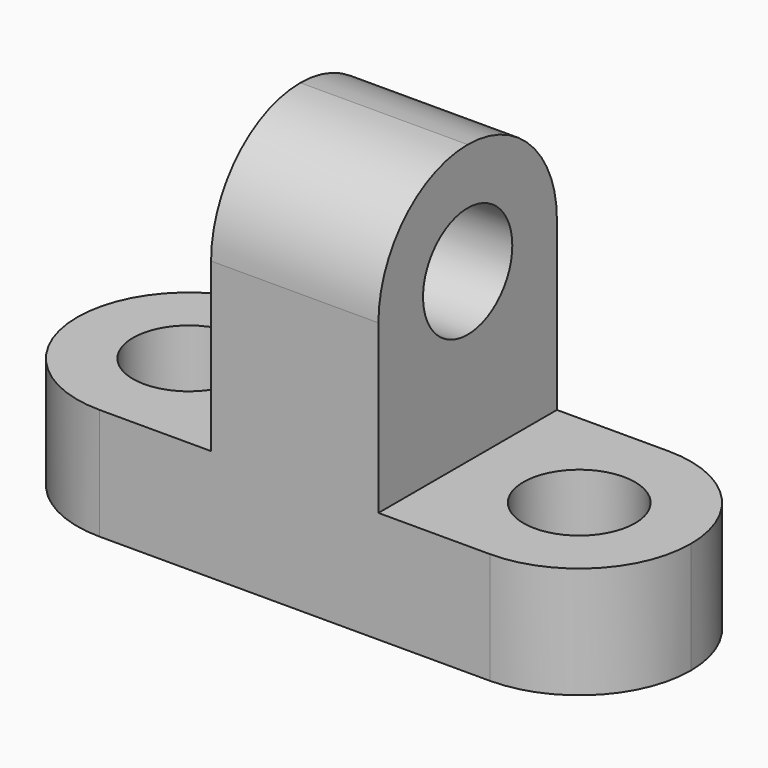
from build123d import *

# Parameters (mm, degrees)
F0_W      = 69.85
F0_H      = 44.45
F1_DEPTH  = 25.4
F2_W      = 25.4
F2_H      = 31.75
F3_DEPTH  = 25.4
F5_DEPTH  = 25.4
F6_R      = 6.35
F7_DEPTH  = 25.4
F9_DEPTH  = 25.4
F11_DEPTH = 25.4
F12_R     = 6.35
F13_DEPTH = 25.4


with BuildPart() as f1:
    # F0 (on Front) → F1 (new body)
    with BuildSketch(Plane.XZ):
        with Locations((34.925, 22.225)):
            Rectangle(F0_W, F0_H)
    extrude(amount=F1_DEPTH)

    # F2 (on face) → F3 (cut)
    with BuildSketch(Plane.XZ.offset(25.4)):
        with Locations((12.7, 28.575)):
            Rectangle(F2_W, F2_H)
        with Locations((57.15, 28.575)):
            Rectangle(F2_W, F2_H)
    extrude(amount=-F3_DEPTH, mode=Mode.SUBTRACT)

    # F4 (on face) → F5 (cut)
    with BuildSketch(Plane.YZ.offset(44.45)):
        with BuildLine():
            ThreePointArc((-25.4, 31.750001), (-21.680256, 40.730257), (-12.7, 44.45))
            Line((-12.7, 44.45), (-25.4, 44.45))
            Line((-25.4, 44.45), (-25.4, 31.750001))
        make_face()
        with BuildLine():
            ThreePointArc((-12.7, 44.45), (-3.719744, 40.730256), (0, 31.75))
            Line((0, 31.75), (0, 44.45))
            Line((0, 44.45), (-12.7, 44.45))
        make_face()
    extrude(amount=-F5_DEPTH, mode=Mode.SUBTRACT)

    # F6 (on face) → F7 (cut)
    with BuildSketch(Plane.YZ.offset(44.45)):
        with Locations((-12.7, 31.75)):
            Circle(F6_R)
    extrude(amount=-F7_DEPTH, mode=Mode.SUBTRACT)

    # F8 (on face) → F9 (cut)
    with BuildSketch(Plane.XY.offset(12.7)):
        with BuildLine():
            ThreePointArc((57.15, 0), (66.130256, -3.719744), (69.85, -12.7))
            Line((69.85, -12.7), (69.85, 0))
            Line((69.85, 0), (57.15, 0))
        make_face()
        with BuildLine():
            ThreePointArc((69.85, -12.7), (66.130256, -21.680256), (57.15, -25.4))
            Line((57.15, -25.4), (69.85, -25.4))
            Line((69.85, -25.4), (69.85, -12.7))
        make_face()
    extrude(amount=-F9_DEPTH, mode=Mode.SUBTRACT)

    # F10 (on face) → F11 (cut)
    with BuildSketch(Plane.XY.offset(12.7)):
        with BuildLine():
            ThreePointArc((0, -12.7), (3.719744, -3.719744), (12.7, 0))
            Line((12.7, 0), (0, 0))
            Line((0, 0), (0, -12.7))
        make_face()
        with BuildLine():
            ThreePointArc((12.7, -25.4), (3.719744, -21.680256), (0, -12.7))
            Line((0, -12.7), (0, -25.4))
            Line((0, -25.4), (12.7, -25.4))
        make_face()
    extrude(amount=-F11_DEPTH, mode=Mode.SUBTRACT)

    # F12 (on face) → F13 (cut)
    with BuildSketch(Plane.XY.offset(12.7)):
        with Locations((12.7, -12.7)):
            Circle(F12_R)
        with Locations((57.15, -12.7)):
            Circle(F12_R)
    extrude(amount=-F13_DEPTH, mode=Mode.SUBTRACT)


solid = f1.part
